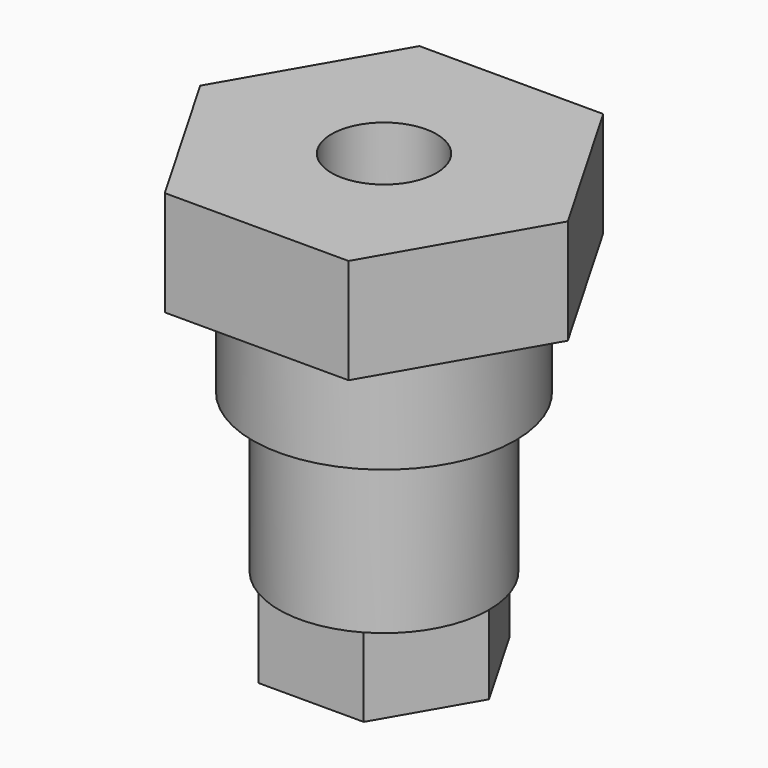
from build123d import *

# Parameters (mm, degrees)
SKETCH151_R             = 2
PAD064_DEPTH            = 4
SKETCH152_R             = 5
SKETCH152_R_2           = 2
PAD065_DEPTH            = 4
SKETCH153_R             = 4
SKETCH153_R_2           = 2
PAD066_DEPTH            = 9
SKETCH157_R             = 2.25
POCKET066_DEPTH         = 10
SKETCH164_R             = 5
POCKET067_DEPTH         = 3
BODY018_PLACEMENT_ANGLE = 90


with BuildPart() as part:
    # Sketch151 → Pad064 (new body)
    with BuildSketch(Plane.XZ):
        Polygon((7, 0), (3.5, 6.062178), (-3.5, 6.062178), (-7, 0), (-3.5, -6.062178), (3.5, -6.062178), align=None)
        Circle(SKETCH151_R, mode=Mode.SUBTRACT)
    extrude(amount=PAD064_DEPTH)

    # Sketch152 (on Face9 of Pad064) → Pad065 (join)
    with BuildSketch(Plane.XZ.offset(4)):
        Circle(SKETCH152_R)
        Circle(SKETCH152_R_2, mode=Mode.SUBTRACT)
    extrude(amount=PAD065_DEPTH)

    # Sketch153 (on Face12 of Pad065) → Pad066 (join)
    with BuildSketch(Plane.XZ.offset(8)):
        Circle(SKETCH153_R)
        Circle(SKETCH153_R_2, mode=Mode.SUBTRACT)
    extrude(amount=PAD066_DEPTH)

    # Sketch157 (on Face15 of Pad066) → Pocket066 (cut)
    with BuildSketch(Plane.XZ.offset(17)):
        Circle(SKETCH157_R)
    extrude(amount=-POCKET066_DEPTH, mode=Mode.SUBTRACT)

    # Sketch164 (on Face16 of Pocket066) → Pocket067 (cut)
    with BuildSketch(Plane.XZ.offset(17)):
        Circle(SKETCH164_R)
        Polygon((4, 0), (2, 3.464102), (-2, 3.464102), (-4, 0), (-2, -3.464102), (2, -3.464102), align=None, mode=Mode.SUBTRACT)
    extrude(amount=-POCKET067_DEPTH, mode=Mode.SUBTRACT)


with BuildPart() as part_1:
    # Body018 placement: moved
    add(part.part.moved(Location((0, -103, 49))).rotate(Axis((0, -103, 49), (1, 0, 0)), BODY018_PLACEMENT_ANGLE))


solid = part_1.part
